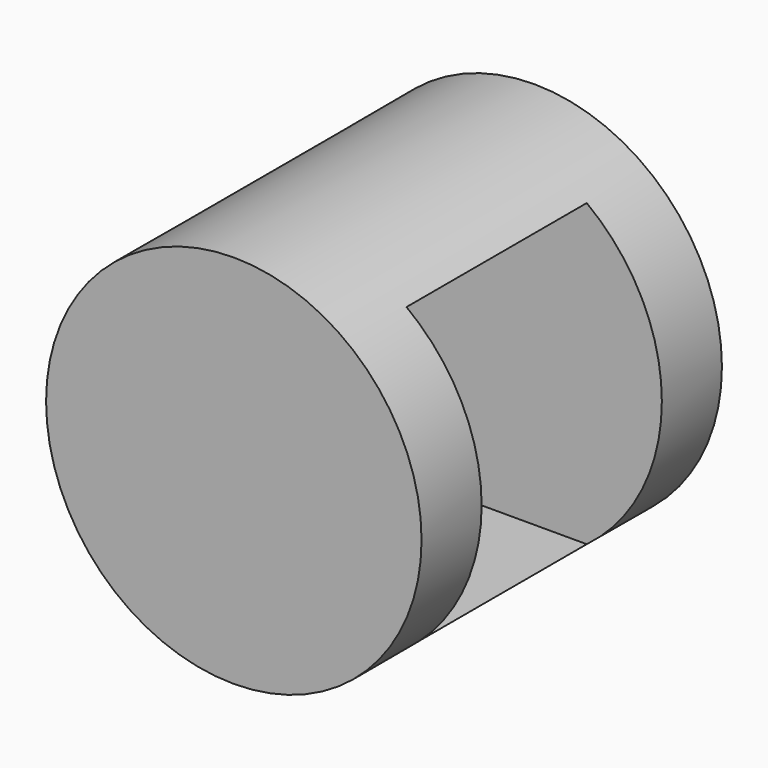
from build123d import *

# Parameters (mm, degrees)
F0_R     = 50
F1_DEPTH = 50
F2_W     = 60
F2_H     = 80
F3_DEPTH = 100


with BuildPart() as f1:
    # F0 (on Front) → F1 (new body, symmetric)
    with BuildSketch(Plane.XZ):
        Circle(F0_R)
    extrude(amount=F1_DEPTH, both=True)

    # F2 (on Right) → F3 (cut, symmetric)
    with BuildSketch(Plane.YZ):
        Rectangle(F2_W, F2_H)
    extrude(amount=F3_DEPTH, both=True, mode=Mode.SUBTRACT)


solid = f1.part
